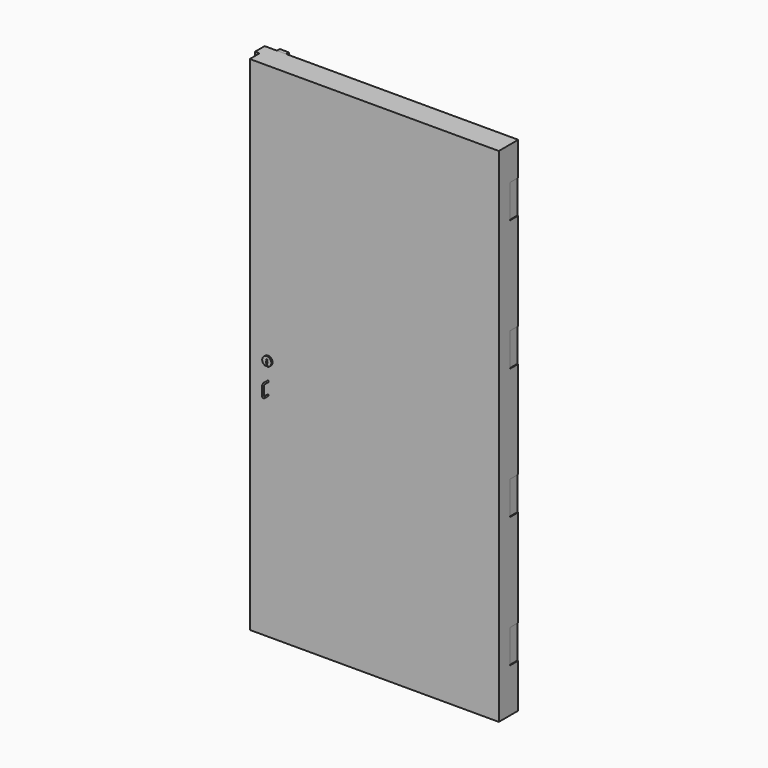
from build123d import *

# Parameters (mm, degrees)
F0_W      = 1060.45
F0_H      = 2101.85
F1_DEPTH  = 101.6
F2_W      = 19.05
F2_H      = 50.8
F3_DEPTH  = 2101.85
F4_W      = 41.91
F4_H      = 139.7
F5_DEPTH  = 3.175
F6_R      = 3.175
F10_W     = 38.1
F10_H     = 12.7
F11_DEPTH = 15.87246
F12_R     = 19.05
F13_DEPTH = 6.35
F15_DEPTH = 25.4


with BuildPart() as f1:
    # F0 (on Front) → F1 (new body)
    with BuildSketch(Plane.XZ):
        Rectangle(F0_W, F0_H)
    extrude(amount=F1_DEPTH)

    # F2 (on face) → F3 (cut, through all)
    with BuildSketch(Plane.XY.offset(1050.925)):
        with Locations((-520.7, -76.2)):
            Rectangle(F2_W, F2_H)
    extrude(amount=-F3_DEPTH, mode=Mode.SUBTRACT)

    # F4 (on face) → F5 (cut)
    with BuildSketch(Plane.YZ.offset(530.225)):
        with Locations((-20.955, -796.925)):
            Rectangle(F4_W, F4_H)
        with Locations((-20.955, -250.825)):
            Rectangle(F4_W, F4_H)
        with Locations((-20.955, 295.275)):
            Rectangle(F4_W, F4_H)
        with Locations((-20.955, 841.375)):
            Rectangle(F4_W, F4_H)
    extrude(amount=-F5_DEPTH, mode=Mode.SUBTRACT)

    # F9: sweep along a path in F8
    with BuildLine(Plane(origin=(-434.975, 0, 0), x_dir=(0, -1, 0), z_dir=(-1, 0, 0))) as f9_path:
        Line((101.6, -111.125), (120.65, -111.125))
        ThreePointArc((120.65, -111.125), (125.1401280605, -112.9848719395), (127, -117.475))
        Line((127, -117.475), (127, -155.575))
        ThreePointArc((127, -155.575), (125.1401280605, -160.0651280606), (120.65, -161.925))
        Line((120.65, -161.925), (101.6, -161.925))
    # F6 (on face) → F9 (sweep)
    with BuildSketch(Plane.XZ.offset(101.6)):
        with Locations((-434.975, -111.125)):
            Circle(F6_R)
    sweep(path=f9_path.line)

    # F10 (on face) → F11 (join)
    with BuildSketch(Plane(origin=(0, 0, 0), x_dir=(-1, 0, 0), z_dir=(0, 1, 0))):
        with Locations((460.375, 1043.78125)):
            Rectangle(F10_W, F10_H)
    extrude(amount=F11_DEPTH)

    # F12 (on face) → F13 (join)
    with BuildSketch(Plane.XZ.offset(101.6)):
        with Locations((-434.975, -34.925)):
            Circle(F12_R)
    extrude(amount=F13_DEPTH)

    # F14 (on face) → F15 (cut)
    with BuildSketch(Plane.XZ.offset(107.95)):
        with BuildLine():
            Line((-438.4902051281, -47.4607607431), (-438.4902051281, -53.6478692488))
            ThreePointArc((-438.4902051281, -53.6478692488), (-434.975, -53.975), (-431.4597948719, -53.6478692488))
            Line((-431.4597948719, -53.6478692488), (-431.4597948719, -47.4607607431))
            Line((-431.4597948719, -47.4607607431), (-433.7515848637, -47.4607607431))
            Line((-433.7515848637, -47.4607607431), (-433.7515848637, -44.9119880795))
            Line((-433.7515848637, -44.9119880795), (-431.7125695705, -42.7710190415))
            Line((-431.7125695705, -42.7710190415), (-433.9554923534, -41.9554114342))
            Line((-433.9554923534, -41.9554114342), (-431.9164770603, -40.2222499251))
            Line((-431.9164770603, -40.2222499251), (-431.9164770603, -35.634458065))
            Line((-431.9164770603, -35.634458065), (-433.5476773739, -33.5954427719))
            Line((-433.5476773739, -33.5954427719), (-433.5476773739, -31.2505699694))
            Line((-433.5476773739, -31.2505699694), (-431.9164770603, -31.2505699694))
            Line((-431.9164770603, -31.2505699694), (-431.9164770603, -28.5998471081))
            Line((-431.9164770603, -28.5998471081), (-434.975, -26.0510761291))
            Line((-434.975, -26.0510761291), (-438.0335229397, -28.5998471081))
            Line((-438.0335229397, -28.5998471081), (-438.0335229397, -31.2505699694))
            Line((-438.0335229397, -31.2505699694), (-436.4023226261, -31.2505699694))
            Line((-436.4023226261, -31.2505699694), (-436.4023226261, -33.5954427719))
            Line((-436.4023226261, -33.5954427719), (-438.0335229397, -35.634458065))
            Line((-438.0335229397, -35.634458065), (-438.0335229397, -40.2222499251))
            Line((-438.0335229397, -40.2222499251), (-435.9945076466, -41.9554114342))
            Line((-435.9945076466, -41.9554114342), (-438.2374304295, -42.7710190415))
            Line((-438.2374304295, -42.7710190415), (-436.1984151363, -44.9119880795))
            Line((-436.1984151363, -44.9119880795), (-436.1984151363, -47.4607607431))
            Line((-436.1984151363, -47.4607607431), (-438.4902051281, -47.4607607431))
        make_face()
    extrude(amount=-F15_DEPTH, mode=Mode.SUBTRACT)


solid = f1.part
